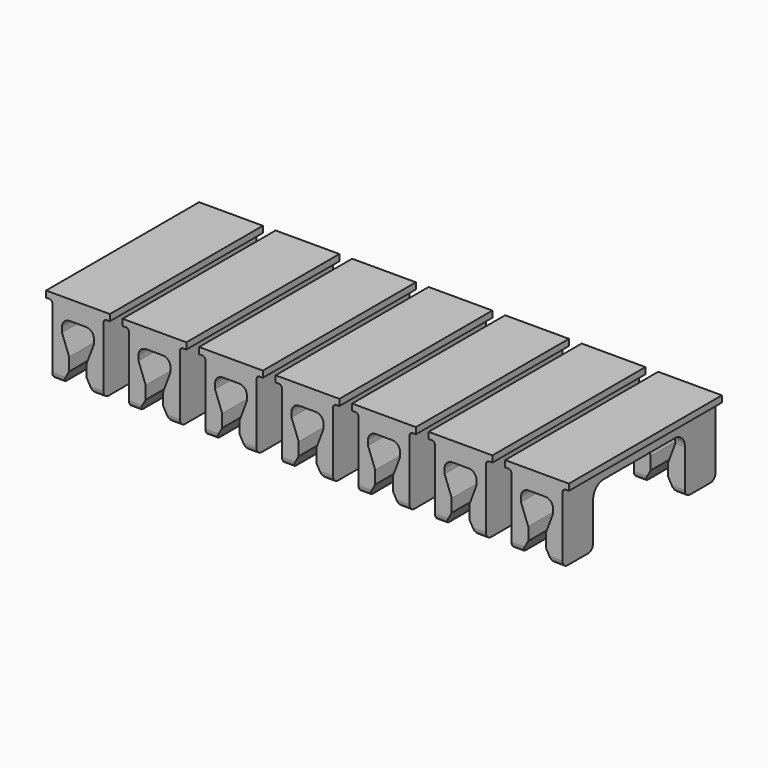
from build123d import *

# Parameters (mm, degrees)
PAD_DEPTH       = 15
SKETCH001_W     = 10
SKETCH001_H     = 18
POCKET_DEPTH    = 9.001
FILLET_R        = 2
POCKET001_DEPTH = 0.25
FILLET001_R     = 0.5
FILLET002_R     = 1.2
FILLET003_R     = 1


with BuildPart() as body:
    # Sketch → Pad (new body, symmetric)
    with BuildSketch(Plane.XZ):
        Polygon((0, 0), (-2.5, 0), (-2.5, -2), (-1.375, -5), (-1.375, -7), (-2.5, -9), (-4, -9), (-4, 0), (-4, 2), (-5, 2), (-5, 3), (5, 3), (5, 2), (4, 2), (4, 0), (4, -9), (2.5, -9), (1.375, -7), (1.375, -5), (2.5, -2), (2.5, 0), align=None)
    extrude(amount=PAD_DEPTH, both=True)

    # Sketch001 (on Face18 of Pad) → Pocket (cut, through all)
    with BuildSketch(Plane(origin=(0, 0, 0), x_dir=(1, 0, 0), z_dir=(0, 0, -1))):
        Rectangle(SKETCH001_W, SKETCH001_H)
    extrude(amount=POCKET_DEPTH, mode=Mode.SUBTRACT)

    # Fillet
    fillet_edges = [body.edges().sort_by_distance(p)[0] for p in [
        (-3.25, -9, 0),
        (3.25, -9, 0),
        (-3.25, 9, 0),
        (3.25, 9, 0),
    ]]
    fillet(fillet_edges, radius=FILLET_R)

    # Sketch002 (on Face4 of Fillet) → Pocket001 (cut)
    with BuildSketch(Plane(origin=(0, 0, 0), x_dir=(1, 0, 0), z_dir=(0, 0, -1))):
        Polygon((-1, 0), (0, -1), (1, 0), (0, 1), align=None)
    extrude(amount=-POCKET001_DEPTH, mode=Mode.SUBTRACT)

    # Fillet001
    fillet001_edges = [body.edges().sort_by_distance(p)[0] for p in [
        (-4, 0, 2),
        (4, 0, 2),
    ]]
    fillet(fillet001_edges, radius=FILLET001_R)

    # Fillet002
    fillet002_edges = [body.edges().sort_by_distance(p)[0] for p in [
        (2.5, -12, 0),
        (2.5, 12, 0),
        (-2.5, 12, 0),
        (-2.5, -12, 0),
    ]]
    fillet(fillet002_edges, radius=FILLET002_R)

    # Fillet003
    fillet003_edges = [body.edges().sort_by_distance(p)[0] for p in [
        (3.25, -15, -9),
        (3.25, -9, -9),
        (-3.25, -9, -9),
        (-3.25, -15, -9),
        (-3.25, 9, -9),
        (-3.25, 15, -9),
        (3.25, 15, -9),
        (3.25, 9, -9),
    ]]
    fillet(fillet003_edges, radius=FILLET003_R)


with BuildPart() as body001:
    # Body001 base: copy of Body
    add(body.part)


with BuildPart() as body001_1:
    # Body001 placement: moved
    add(body001.part.moved(Location((12, 0, 0))))


with BuildPart() as body002:
    # Body002 base: copy of Body
    add(body.part)


with BuildPart() as body002_1:
    # Body002 placement: moved
    add(body002.part.moved(Location((24, 0, 0))))


with BuildPart() as body003:
    # Body003 base: copy of Body
    add(body.part)


with BuildPart() as body003_1:
    # Body003 placement: moved
    add(body003.part.moved(Location((36, 0, 0))))


with BuildPart() as body004:
    # Body004 base: copy of Body
    add(body.part)


with BuildPart() as body004_1:
    # Body004 placement: moved
    add(body004.part.moved(Location((48, 0, 0))))


with BuildPart() as body005:
    # Body005 base: copy of Body
    add(body.part)


with BuildPart() as body005_1:
    # Body005 placement: moved
    add(body005.part.moved(Location((60, 0, 0))))


with BuildPart() as body006:
    # Body006 base: copy of Body
    add(body.part)


with BuildPart() as body006_1:
    # Body006 placement: moved
    add(body006.part.moved(Location((72, 0, 0))))


with BuildPart() as body007:
    # Body007 base: copy of Body
    add(body.part)


with BuildPart() as body007_1:
    # Body007 placement: moved
    add(body007.part.moved(Location((84, 0, 0))))


solid = Compound([body001_1.part, body002_1.part, body003_1.part, body004_1.part, body005_1.part, body006_1.part, body007_1.part])
